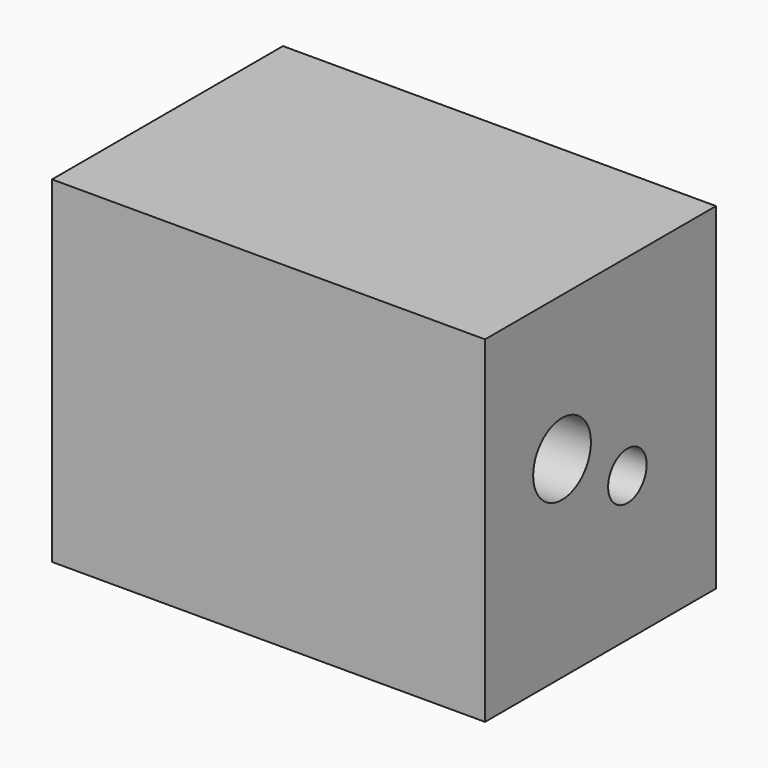
from build123d import *

# Parameters (mm, degrees)
F0_W     = 114.3
F0_H     = 88.9
F1_DEPTH = 76.2
F2_R     = 9.525
F2_R_2   = 6.35
F3_DEPTH = 114.3


with BuildPart() as f1:
    # F0 (on Front) → F1 (new body)
    with BuildSketch(Plane.XZ):
        with Locations((9.282359, 3.605103)):
            Rectangle(F0_W, F0_H)
    extrude(amount=F1_DEPTH)

    # F2 (on face) → F3 (cut, through all)
    with BuildSketch(Plane(origin=(-47.867641, 0, 0), x_dir=(0, -1, 0), z_dir=(-1, 0, 0))):
        with Locations((50.8, 9.955103)):
            Circle(F2_R)
        with Locations((29.236731, -2.744897)):
            Circle(F2_R_2)
    extrude(amount=-F3_DEPTH, mode=Mode.SUBTRACT)


solid = f1.part
